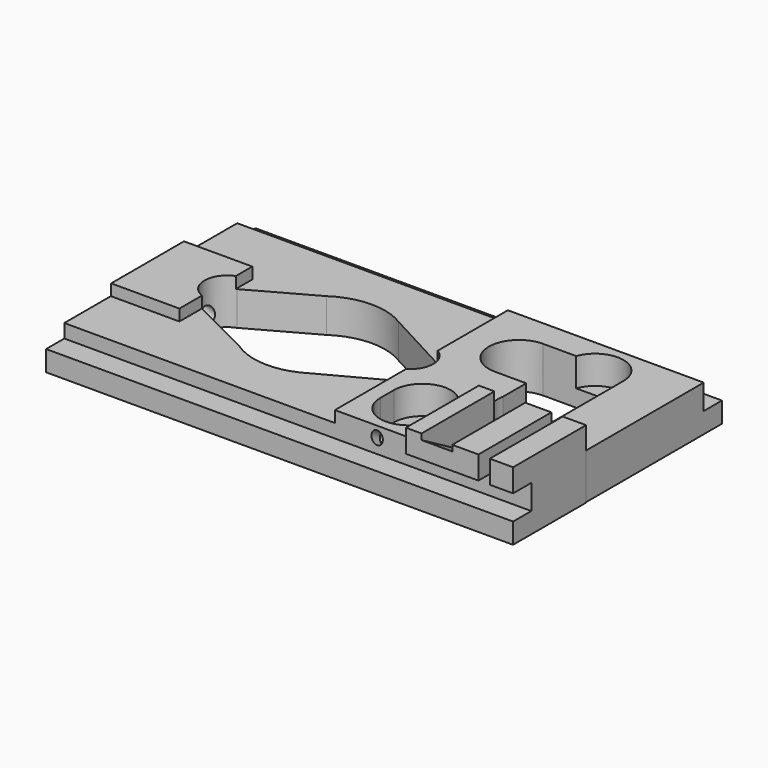
from build123d import *

# Parameters (mm, degrees)
SKETCH008_W          = 9.417664
SKETCH008_H          = 8.015827
PAD_DEPTH            = 6
SKETCH007_W          = 17.214357
SKETCH007_H          = 23
PAD001_DEPTH         = 4
SKETCH_W             = 41
SKETCH_H             = 23
PAD002_DEPTH         = 3
SKETCH009_W          = 6
SKETCH009_H          = 8
PAD003_DEPTH         = 4
POCKET_DEPTH         = 1.5
POCKET001_DEPTH      = 5
POCKET002_DEPTH      = 5
POCKET003_DEPTH      = 5
POCKET004_DEPTH      = 5
SKETCH004_R          = 2.5
POCKET005_DEPTH      = 5
SKETCH010_W          = 41
SKETCH010_H          = 2
SKETCH010_W_2        = 31.58
POCKET006_DEPTH      = 5
SKETCH013_W          = 2
SKETCH013_H          = 2.18
POCKET007_DEPTH      = 10
SKETCH014_W          = 2.7
SKETCH014_H          = 5
POCKET008_DEPTH      = 10
POCKET008_DEPTH_BACK = 10
SKETCH015_W          = 1
SKETCH015_H          = 2.1
POCKET009_DEPTH      = 8.05
SKETCH012_R          = 0.8
POCKET010_DEPTH      = 8
SKETCH016_R          = 0.5
POCKET011_DEPTH      = 1
SKETCH017_W          = 38
SKETCH017_H          = 20
SKETCH017_W_2        = 35
SKETCH017_H_2        = 17
POCKET012_DEPTH      = 0.5


with BuildPart() as part:
    # Sketch008 → Pad (new body)
    with BuildSketch(Plane.XY):
        with Locations((36.336342, 4.0079135)):
            Rectangle(SKETCH008_W, SKETCH008_H)
    extrude(amount=PAD_DEPTH)

    # Sketch007 → Pad001 (join)
    with BuildSketch(Plane.XY):
        with Locations((32.3928215, 11.5)):
            Rectangle(SKETCH007_W, SKETCH007_H)
    extrude(amount=PAD001_DEPTH)

    # Sketch → Pad002 (join)
    with BuildSketch(Plane.XY):
        with Locations((20.5, 11.5)):
            Rectangle(SKETCH_W, SKETCH_H)
    extrude(amount=PAD002_DEPTH)

    # Sketch009 → Pad003 (join)
    with BuildSketch(Plane.XY):
        with Locations((3.029941472, 11.1135029832)):
            Rectangle(SKETCH009_W, SKETCH009_H)
    extrude(amount=PAD003_DEPTH)

    # Sketch003 → Pocket (cut)
    with BuildSketch(Plane.XY):
        with BuildLine():
            Line((23.975689, 13.0540965715), (26.8011965151, 13.0540965715))
            ThreePointArc((26.8011965151, 13.0540965715), (27.3647082361, 13.2875107689), (27.5981224335, 13.8510224899))
            Line((27.5981224335, 13.8510224899), (27.5981224335, 14.526678))
            Line((27.5981224335, 14.526678), (30.5981224335, 14.526678))
            Line((30.5981224335, 14.526678), (30.5981224335, 13.2924514667))
            ThreePointArc((27.3597675383, 10.0540965715), (29.6496302446, 11.0025887604), (30.5981224335, 13.2924514667))
            Line((27.3597675383, 10.0540965715), (23.975689, 10.0540965715))
            Line((23.975689, 10.0540965715), (23.975689, 13.0540965715))
        make_face()
    extrude(amount=POCKET_DEPTH, mode=Mode.SUBTRACT)

    # Sketch001 → Pocket001 (cut)
    with BuildSketch(Plane.XY):
        with BuildLine():
            ThreePointArc((6.1032483008, 13.3387395872), (4.7679879703, 11.5907435275), (5.8459964121, 9.6733734082))
            Line((5.8459964121, 9.6733734082), (11.4677626675, 6.8598227367))
            ThreePointArc((11.4677626675, 6.8598227367), (14.6035600083, 5.8212239037), (17.794301339, 6.6762573881))
            Line((17.794301339, 6.6762573881), (23.3375945955, 9.6414256942))
            ThreePointArc((23.3375945955, 9.6414256942), (24.7768585387, 11.4984422833), (23.4574990247, 13.4424797786))
            Line((23.4574990247, 13.4424797786), (17.8173054197, 16.4670815869))
            ThreePointArc((17.8173054197, 16.4670815869), (14.6646196223, 17.3378254465), (11.5461110533, 16.3516576556))
            Line((11.5461110533, 16.3516576556), (6.1032483008, 13.3387395872))
        make_face()
    extrude(amount=POCKET001_DEPTH, mode=Mode.SUBTRACT)

    # Sketch006 → Pocket002 (cut)
    with BuildSketch(Plane.XY.offset(1.5)):
        with BuildLine():
            ThreePointArc((30.093781, 6.846887), (27.593781, 9.346887), (25.093781, 6.846887))
            Line((25.093781, 6.846887), (25.093781, 5.346887))
            ThreePointArc((25.093781, 5.346887), (27.593781, 2.846887), (30.093781, 5.346887))
            Line((30.093781, 6.846887), (30.093781, 5.346887))
        make_face()
    extrude(amount=POCKET002_DEPTH, mode=Mode.SUBTRACT)

    # Sketch005 → Pocket003 (cut)
    with BuildSketch(Plane.XY.offset(1.5)):
        with BuildLine():
            ThreePointArc((31.548714, 10.251081), (34.048714, 7.751081), (36.548714, 10.251081))
            Line((36.548714, 10.251081), (36.548714, 17.751081))
            ThreePointArc((36.548714, 17.751081), (34.048714, 20.251081), (31.548714, 17.751081))
            Line((31.548714, 10.251081), (31.548714, 17.751081))
        make_face()
    extrude(amount=POCKET003_DEPTH, mode=Mode.SUBTRACT)

    # Sketch002 → Pocket004 (cut)
    with BuildSketch(Plane.XY):
        with BuildLine():
            ThreePointArc((28.798038, 18.6125900268), (26.1467217956, 15.9612738224), (28.798038, 13.3099576181))
            Line((28.798038, 13.309957618), (33.4782685239, 13.309957618))
            ThreePointArc((33.4782685239, 13.3099576181), (36.1295847282, 15.9612738224), (33.4782685239, 18.6125900268))
            Line((28.798038, 18.6125900268), (33.4782685239, 18.6125900268))
        make_face()
    extrude(amount=POCKET004_DEPTH, mode=Mode.SUBTRACT)

    # Sketch004 → Pocket005 (cut)
    with BuildSketch(Plane.XY):
        with Locations((34, 10.25)):
            Circle(SKETCH004_R)
    extrude(amount=POCKET005_DEPTH, mode=Mode.SUBTRACT)

    # Sketch010 → Pocket006 (cut)
    with BuildSketch(Plane.XY.offset(1.8)):
        with Locations((20.5, 22)):
            Rectangle(SKETCH010_W, SKETCH010_H)
        with Locations((15.79, 1)):
            Rectangle(SKETCH010_W_2, SKETCH010_H)
    extrude(amount=POCKET006_DEPTH, mode=Mode.SUBTRACT)

    # Sketch013 → Pocket007 (cut)
    with BuildSketch(Plane.YZ.offset(31.58)):
        with Locations((1, 2.89)):
            Rectangle(SKETCH013_W, SKETCH013_H)
    extrude(amount=POCKET007_DEPTH, mode=Mode.SUBTRACT)

    # Sketch014 → Pocket008 (cut, two sides)
    with BuildSketch(Plane(origin=(0, -2.5, 0), x_dir=(1, 0, 0), z_dir=(0, -0.8660254038, 0.5))) as pocket008_sk:
        with Locations((34.35, 8.5)):
            Rectangle(SKETCH014_W, SKETCH014_H)
    extrude(amount=-POCKET008_DEPTH, mode=Mode.SUBTRACT)
    extrude(pocket008_sk.sketch, amount=POCKET008_DEPTH_BACK, mode=Mode.SUBTRACT)

    # Sketch015 → Pocket009 (cut)
    with BuildSketch(Plane.XZ):
        with Locations((38.5, 5.0085653562)):
            Rectangle(SKETCH015_W, SKETCH015_H)
    extrude(amount=-POCKET009_DEPTH, mode=Mode.SUBTRACT)

    # Sketch012 → Pocket010 (cut)
    with BuildSketch(Plane(origin=(5, 0, 0), x_dir=(0, 1, 0), z_dir=(0.9396926208, 0, -0.3420201433))):
        with Locations((11.55, 1)):
            Circle(SKETCH012_R)
    extrude(amount=-POCKET010_DEPTH, mode=Mode.SUBTRACT)

    # Sketch016 → Pocket011 (cut, symmetric)
    with BuildSketch(Plane(origin=(0, 1, 0.2), x_dir=(1, 0, 0), z_dir=(0, -0.8660254038, 0.5))):
        with Locations((27.497313, 2.982959)):
            Circle(SKETCH016_R)
    extrude(amount=POCKET011_DEPTH, both=True, mode=Mode.SUBTRACT)

    # Sketch017 → Pocket012 (cut)
    with BuildSketch(Plane.XY):
        with Locations((20.5, 11.5)):
            Rectangle(SKETCH017_W, SKETCH017_H)
        with Locations((20.5, 11.5)):
            Rectangle(SKETCH017_W_2, SKETCH017_H_2, mode=Mode.SUBTRACT)
    extrude(amount=POCKET012_DEPTH, mode=Mode.SUBTRACT)


solid = part.part
